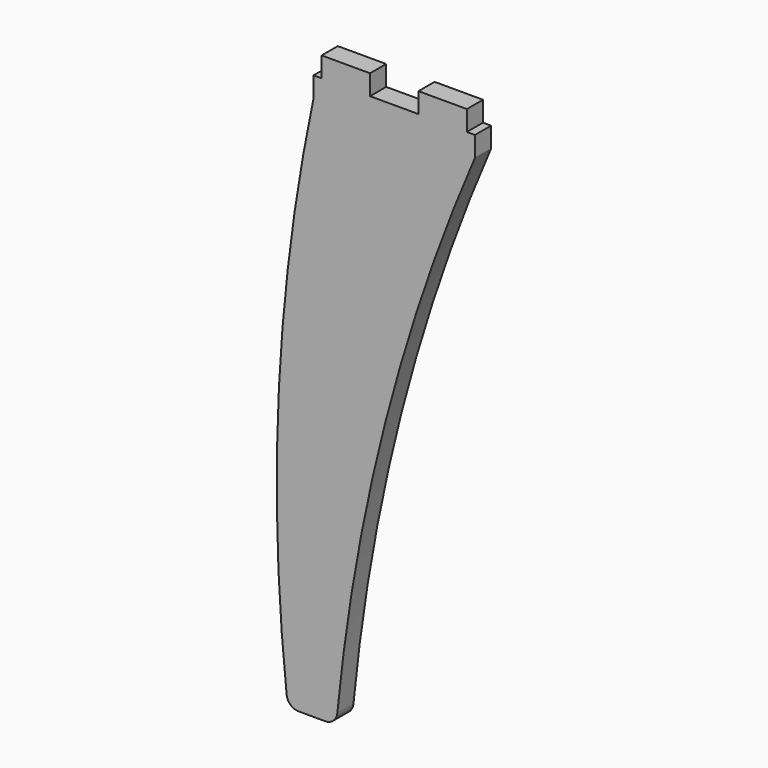
from build123d import *

# Parameters (mm, degrees)
F1_DEPTH = 25
F2_R     = 15


with BuildPart() as f1:
    # F0 (on Front) → F1 (new body)
    with BuildSketch(Plane.XZ):
        with BuildLine():
            Line((-30, -25), (-30, 0))
            Line((-30, 0), (-90, 0))
            Line((-90, 0), (-90, -25))
            Line((-90, -25), (-100, -25))
            Line((-100, -25), (-100, -50))
            ThreePointArc((-100, -50), (-143.274866, -386.20878), (-131.892105, -725))
            Line((-131.892105, -725), (-71.892105, -725))
            ThreePointArc((-71.892105, -725), (-12.656545, -380.703496), (100, -50.011137))
            Line((100, -50.011137), (100, -25))
            Line((100, -25), (90, -25))
            Line((90, -25), (90, 0))
            Line((90, 0), (30, 0))
            Line((30, 0), (30, -25))
            Line((30, -25), (-30, -25))
        make_face()
    extrude(amount=F1_DEPTH)

    # F2
    f2_edges = [f1.edges().sort_by_distance(p)[0] for p in [
        (-71.892105, -12.5, -725),
        (-131.892105, -12.5, -725),
    ]]
    fillet(f2_edges, radius=F2_R)


solid = f1.part
